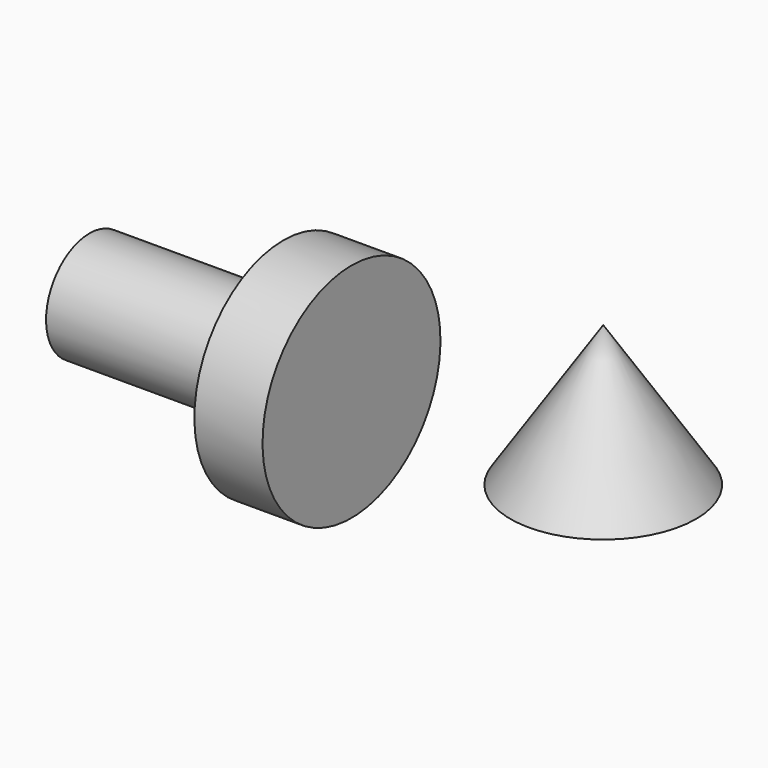
from build123d import *


with BuildPart() as f1:
    # F0 (on Front) → F1 (revolve)
    with BuildSketch(Plane.XZ):
        Polygon((-28.831715, 0), (0, 0), (10.131622, 0), (10.131622, 16.53838), (0, 16.53838), (0, 8.069375), (-28.831715, 8.069375), align=None)
    revolve(axis=Axis((5.065811, 0, 0), (-1, 0, 0)))


with BuildPart() as f3:
    # F2 (on Front) → F3 (revolve)
    with BuildSketch(Plane.XZ):
        Polygon((61.370298, 0), (47.565453, 20.908967), (47.565453, 0), align=None)
    revolve(axis=Axis((47.565453, 0, 10.454483), (0, 0, -1)))


solid = Compound([f1.part, f3.part])
